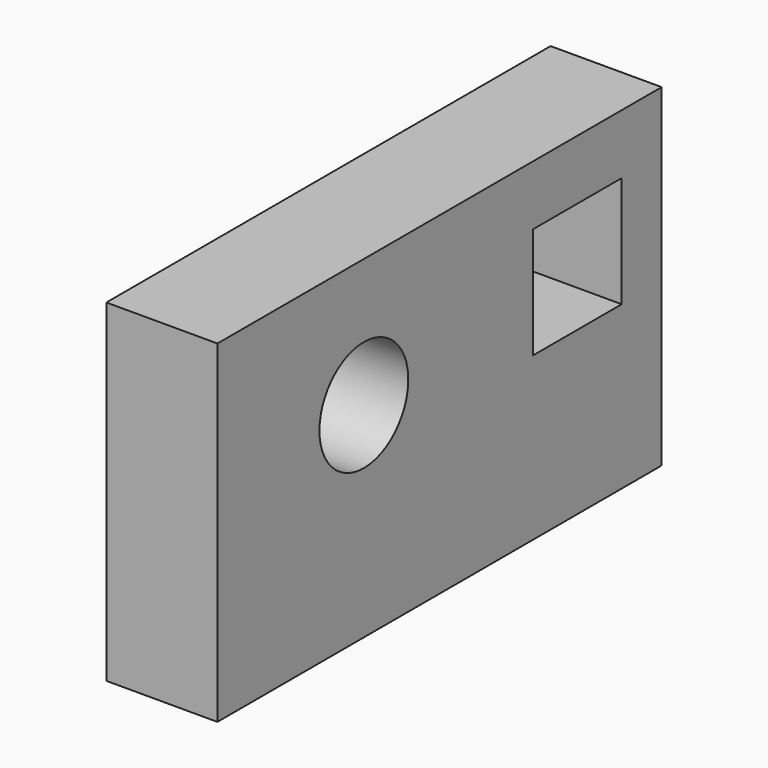
from build123d import *

# Parameters (mm, degrees)
F0_W     = 127
F0_H     = 76.2
F1_DEPTH = 25.4
F2_W     = 25.4
F2_H     = 25.4
F2_R     = 12.7
F3_DEPTH = 2540


with BuildPart() as f1:
    # F0 (on Right) → F1 (new body)
    with BuildSketch(Plane.YZ):
        with Locations((-7.924328, 38.1)):
            Rectangle(F0_W, F0_H)
    extrude(amount=F1_DEPTH)

    # F2 (on face) → F3 (cut)
    with BuildSketch(Plane(origin=(0, 0, 0), x_dir=(0, -1, 0), z_dir=(-1, 0, 0))):
        with Locations((-31.45644, 49.823285)):
            Rectangle(F2_W, F2_H)
        with Locations((29.554684, 46.785511)):
            Circle(F2_R)
    extrude(amount=-F3_DEPTH, mode=Mode.SUBTRACT)


solid = f1.part
